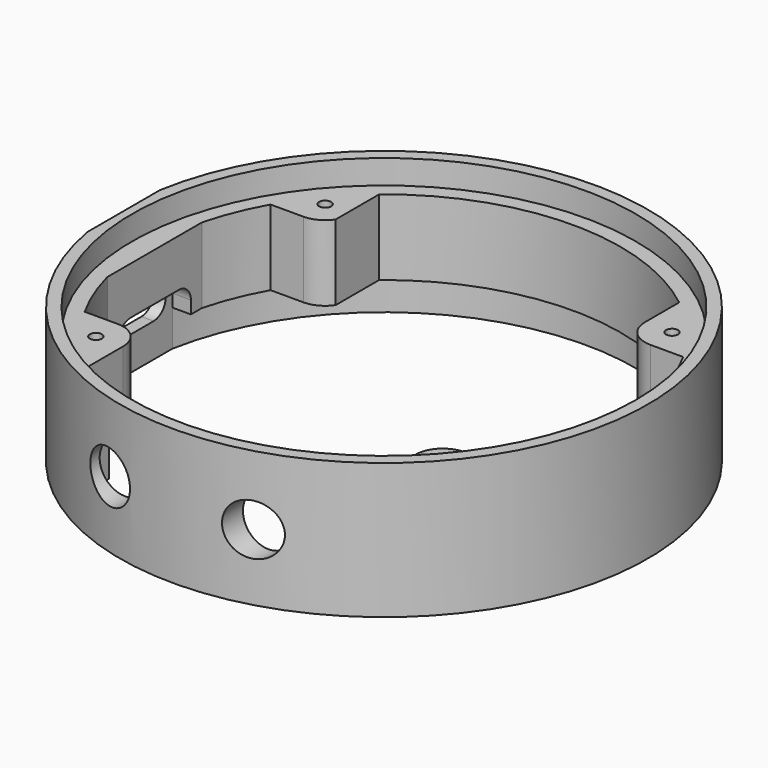
from build123d import *

# Parameters (mm, degrees)
PAD011_DEPTH    = 10
PAD012_DEPTH    = 4.8
SKETCH024_R     = 33.4
PAD013_DEPTH    = 3.2
POCKET007_DEPTH = 2.456658
POCKET008_DEPTH = 1.625221
SKETCH023_W     = 28
SKETCH023_H     = 9
POCKET009_DEPTH = 5
SKETCH022_R     = 3.4
POCKET010_DEPTH = 5
SKETCH025_R     = 0.8
POCKET011_DEPTH = 13.201


with BuildPart() as part:
    # CopySketch013 → Pad011 (new body)
    with BuildSketch(Plane.XY):
        with BuildLine():
            ThreePointArc((-34.481879, -6), (35, 0), (-34.481879, 6))
            Line((-34.481879, 6), (-34.481879, -6))
        make_face()
        with BuildLine():
            ThreePointArc((-27.36421, 15.4), (-29.127032, 11.729279), (-30.4, 7.861298))
            Line((-30.4, 7.861298), (-30.4, -7.861298))
            ThreePointArc((-30.4, -7.861298), (-29.127032, -11.729279), (-27.36421, -15.4))
            Line((-27.36421, -15.4), (-23, -15.4))
            ThreePointArc((-19.4, -18.999985), (-20.454421, -16.45441), (-23, -15.4))
            Line((-19.4, -18.999985), (-19.4, -24.690079))
            ThreePointArc((-19.4, -24.690079), (0, -31.4), (19.4, -24.690079))
            Line((19.4, -19), (19.4, -24.690079))
            ThreePointArc((23, -15.4), (20.454416, -16.454416), (19.4, -19))
            Line((23, -15.4), (27.36421, -15.4))
            ThreePointArc((27.36421, -15.4), (31.4, 0), (27.36421, 15.4))
            Line((23, 15.4), (27.36421, 15.4))
            ThreePointArc((19.4, 19), (20.454416, 16.454416), (23, 15.4))
            Line((19.4, 24.690079), (19.4, 19))
            ThreePointArc((19.4, 24.690079), (-0.385273, 31.397636), (-20, 24.206611))
            Line((-20, 24.206611), (-20, 17.010025))
            ThreePointArc((-23, 15.4), (-21.297635, 15.827942), (-20, 17.010025))
            Line((-23, 15.4), (-27.36421, 15.4))
        make_face(mode=Mode.SUBTRACT)
    extrude(amount=PAD011_DEPTH)

    # Sketch019 → Pad012 (join)
    with BuildSketch(Plane.XY):
        with BuildLine():
            ThreePointArc((-34.481879, -6), (35, 0), (-34.481879, 6))
            Line((-34.481879, 6), (-34.481879, -6))
        make_face()
        with BuildLine():
            ThreePointArc((-32.856658, -6), (33.4, 0), (-32.856658, 6))
            Line((-32.856658, 6), (-32.856658, -6))
        make_face(mode=Mode.SUBTRACT)
    extrude(amount=-PAD012_DEPTH)

    # Sketch024 → Pad013 (join)
    with BuildSketch(Plane.XY.offset(10)):
        with BuildLine():
            ThreePointArc((-34.481879, -6), (35, 0), (-34.481879, 6))
            Line((-34.481879, 6), (-34.481879, -6))
        make_face()
        Circle(SKETCH024_R, mode=Mode.SUBTRACT)
    extrude(amount=PAD013_DEPTH)

    # Sketch020 (on Face19 of Pad013) → Pocket007 (cut)
    with BuildSketch(Plane.YZ.offset(-30.4)):
        with BuildLine():
            ThreePointArc((-4, 3.68), (-5.414214, 3.094214), (-6, 1.68))
            Line((-6, 1.68), (-6, -3.6))
            Line((-6, -3.6), (6, -3.6))
            Line((6, 1.68), (6, -3.6))
            ThreePointArc((6, 1.68), (5.414214, 3.094214), (4, 3.68))
            Line((-4, 3.68), (4, 3.68))
        make_face()
    extrude(amount=-POCKET007_DEPTH, mode=Mode.SUBTRACT)

    # Sketch021 → Pocket008 (cut)
    with BuildSketch(Plane(origin=(-34.481879, 0, 0), x_dir=(0, -1, 0), z_dir=(-1, 0, 0))):
        with BuildLine():
            ThreePointArc((2.9, -0.32), (4.9, 1.68), (2.9, 3.68))
            Line((2.9, 3.68), (-2.9, 3.68))
            ThreePointArc((-2.9, 3.68), (-4.9, 1.68), (-2.9, -0.32))
            Line((2.9, -0.32), (-2.9, -0.32))
        make_face()
    extrude(amount=-POCKET008_DEPTH, mode=Mode.SUBTRACT)

    # Sketch023 → Pocket009 (cut)
    with BuildSketch(Plane.XZ.offset(31)):
        with Locations((0, 4.5)):
            Rectangle(SKETCH023_W, SKETCH023_H)
    extrude(amount=-POCKET009_DEPTH, mode=Mode.SUBTRACT)

    # Sketch022 → Pocket010 (cut)
    with BuildSketch(Plane.XZ.offset(35)):
        with Locations((-9.5, 4)):
            Circle(SKETCH022_R)
        with Locations((9.5, 4)):
            Circle(SKETCH022_R)
    extrude(amount=-POCKET010_DEPTH, mode=Mode.SUBTRACT)

    # Sketch025 → Pocket011 (cut, through all)
    with BuildSketch(Plane.XY):
        with Locations((-23, 19)):
            Circle(SKETCH025_R)
        with Locations((23, 19)):
            Circle(SKETCH025_R)
        with Locations((-23, -19)):
            Circle(SKETCH025_R)
        with Locations((23, -19)):
            Circle(SKETCH025_R)
    extrude(amount=POCKET011_DEPTH, mode=Mode.SUBTRACT)


solid = part.part
